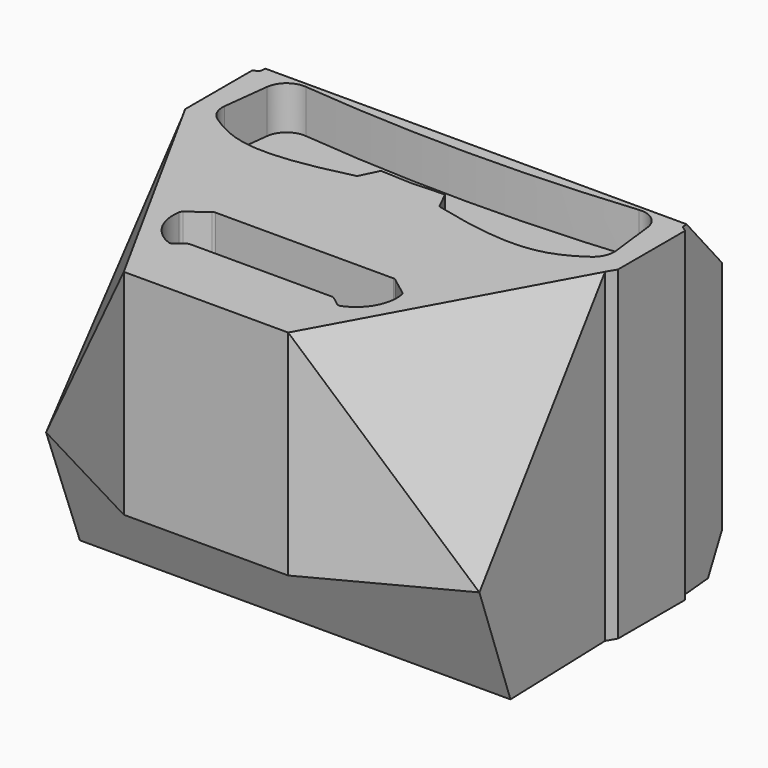
from build123d import *

# Parameters (mm, degrees)
F0_W      = 25.4
F0_H      = 25.4
F1_DEPTH  = 19.05
F2_W      = 33.1137652975
F2_H      = 28.659734875
F3_DEPTH  = 19.051
F5_DEPTH  = 12.7
F7_DEPTH  = 2.54
F9_DEPTH  = 12.7
F12_DEPTH = 25.4
F15_DEPTH = 25.4
F17_DEPTH = 5.08
F18_R     = 1.27
F20_R     = 1.5875
F21_DEPTH = 12.7
F22_R     = 0.254


with BuildPart() as f1:
    # F0 (on Top) → F1 (new body)
    with BuildSketch(Plane.XY):
        Rectangle(F0_W, F0_H)
    extrude(amount=F1_DEPTH)

    # F2 (on face) → F3 (cut, through all)
    with BuildSketch(Plane.XY.offset(19.05)):
        with Locations((-1.1700320756, 0)):
            Rectangle(F2_W, F2_H)
        with BuildLine():
            ThreePointArc((-12.065, 10.0208269432), (0, 11.8638118431), (12.065, 10.0208269432))
            Line((12.065, 10.0208269432), (12.3786535114, 6.750300061))
            Line((12.3786535114, 6.750300061), (12.7, 6.5362956375))
            Line((12.7, 6.5362956375), (12.7, 1.6182865947))
            Line((12.7, 1.6182865947), (12.3786535114, 1.0663146386))
            Line((12.3786535114, 1.0663146386), (12.7, -8.5426112637))
            Line((12.7, -8.5426112637), (4.8173773102, -12.7))
            Line((4.8173773102, -12.7), (0, -12.7))
            Line((0, -12.7), (-4.8173773102, -12.7))
            Line((-4.8173773102, -12.7), (-12.7, -8.5426112637))
            Line((-12.7, -8.5426112637), (-12.3786535114, 1.0663146386))
            Line((-12.3786535114, 1.0663146386), (-12.7, 1.6182865947))
            Line((-12.7, 1.6182865947), (-12.7, 6.5362956375))
            Line((-12.7, 6.5362956375), (-12.3786535114, 6.750300061))
            Line((-12.3786535114, 6.750300061), (-12.065, 10.0208269432))
        make_face(mode=Mode.SUBTRACT)
    extrude(amount=-F3_DEPTH, mode=Mode.SUBTRACT)

    # F4 (on Right) → F5 (cut, symmetric)
    with BuildSketch(Plane.YZ):
        Polygon((13.4258409962, 23.2345554978), (6.619815249, 19.5569172502), (12.7253746614, 12.7713512629), align=None)
    extrude(amount=F5_DEPTH, both=True, mode=Mode.SUBTRACT)

    # F6 (on face) → F7 (cut)
    with BuildSketch(Plane.XY.offset(19.05)):
        with BuildLine():
            ThreePointArc((11.0015488178, 6.9544261182), (0, 6.3570296668), (-11.0015488178, 6.9544261182))
            Line((-11.0015488178, 6.9544261182), (-11.1053383224, 6.0839187998))
            Line((-11.1053383224, 6.0839187998), (-11.5596242249, 2.2737146355))
            add(Edge.make_bspline(
                [(-2.4099256195, 1.3795604811), (-7.9047118703, 0.0093029614), (-9.4140619773, 0.61575824), (-11.5596242249, 2.2737146355)],
                knots=[0, 0, 0, 0, 0.380461969, 0.380461969, 0.380461969, 0.380461969], degree=3))
            Line((-2.4099256195, 1.3795604811), (-1.8782533274, 2.4663225251))
            Line((-1.8782533274, 2.4663225251), (0, 2.3830392409))
            Line((0, 2.3830392409), (1.8782533274, 2.4663225251))
            Line((1.8782533274, 2.4663225251), (2.4099256195, 1.3795604811))
            add(Edge.make_bspline(
                [(2.4099256195, 1.3795604811), (7.9047118703, 0.0093029614), (9.4140619773, 0.61575824), (11.5596242249, 2.2737146355)],
                knots=[0, 0, 0, 0, 0.380461969, 0.380461969, 0.380461969, 0.380461969], degree=3))
            Line((11.5596242249, 2.2737146355), (11.1053383224, 6.0839187998))
            Line((11.1053383224, 6.0839187998), (11.0015488178, 6.9544261182))
        make_face()
    extrude(amount=-F7_DEPTH, mode=Mode.SUBTRACT)

    # F8 (on Right) → F9 (cut, symmetric)
    with BuildSketch(Plane.YZ):
        Polygon((16.2616688758, -2.9984780122), (12.367782183, 5.9512541629), (7.8229103237, -1.7573904479), align=None)
        Polygon((-14.0263205394, -2.3636263795), (-5.847228691, -0.8765184903), (-8.5426112637, 6.5125478432), (-13.6080719531, 6.5125478432), align=None)
    extrude(amount=F9_DEPTH, both=True, mode=Mode.SUBTRACT)

    # F11 (on 3pt) → F12 (cut)
    with BuildSketch(Plane(origin=(13.5235138631, -7.4279156196, 6.0395065555), x_dir=(-0.409334057, -0.8938834922, -0.1828057224), z_dir=(-0.8161889166, 0.4482993446, -0.3645042525))):
        Polygon((9.3890596181, -6.6504105926), (10.8706550673, 19.4640029222), (-6.7497892305, 22.2047120333), (-12.2956875712, 3.634221619), (-6.1068134382, -4.8245443031), align=None)
    extrude(amount=-F12_DEPTH, mode=Mode.SUBTRACT)

    # F14 (on 3pt) → F15 (cut)
    with BuildSketch(Plane(origin=(-13.5235138631, -7.4279156196, 6.0395065555), x_dir=(0.409334057, -0.8938834922, -0.1828057224), z_dir=(-0.8161889166, -0.4482993446, 0.3645042525))):
        Polygon((12.0957437903, 22.2065132111), (-11.2094106153, 21.0766065866), (-8.9160036296, -5.990778096), (12.0957437903, -5.990778096), align=None)
    extrude(amount=F15_DEPTH, mode=Mode.SUBTRACT)

    # F16 (on face) → F17 (cut)
    with BuildSketch(Plane.XY.offset(19.05)):
        with BuildLine():
            Line((5.2999914624, -5.4918094538), (0, -5.4918094538))
            Line((0, -5.4918094538), (-5.2999914624, -5.4918094538))
            Line((-5.2999914624, -5.4918094538), (-6.5067803222, -6.403681509))
            ThreePointArc((-6.5067803222, -6.403681509), (-6.2496472485, -8.0992009526), (-4.9241394059, -9.1872876037))
            Line((-4.9241394059, -9.1872876037), (-4.2353287011, -8.6668094538))
            Line((-4.2353287011, -8.6668094538), (0, -8.6668094538))
            Line((0, -8.6668094538), (4.2353287011, -8.6668094538))
            Line((4.2353287011, -8.6668094538), (4.9241394059, -9.1872876037))
            ThreePointArc((4.9241394059, -9.1872876037), (6.2496472485, -8.0992009526), (6.5067803222, -6.403681509))
            Line((6.5067803222, -6.403681509), (5.2999914624, -5.4918094538))
        make_face()
    extrude(amount=-F17_DEPTH, mode=Mode.SUBTRACT)

    # F18
    f18_edges = [f1.edges().sort_by_distance(p)[0] for p in [
        (-11.001549, 6.954426, 17.78),
        (11.001549, 6.954426, 17.78),
        (11.559624, 2.273715, 17.78),
        (-11.559624, 2.273715, 17.78),
    ]]
    fillet(f18_edges, radius=F18_R)

    # F20 (on face) → F21 (cut, symmetric)
    with BuildSketch(Plane(origin=(-4.0520275589, -3.3428374331, 0), x_dir=(-0.6363732922, 0.7713812501, 0), z_dir=(0.7713812501, 0.6363732922, 0))):
        with Locations((12.3976198956, 8.7611014023)):
            Circle(F20_R)
    extrude(amount=F21_DEPTH, both=True, mode=Mode.SUBTRACT)

    # F22
    f22_edges = [f1.edges().sort_by_distance(p)[0] for p in [
        (-4.235329, -8.666809, 16.51),
        (-4.924139, -9.187288, 16.51),
        (-6.50678, -6.403682, 16.51),
        (-5.299991, -5.491809, 16.51),
        (4.235329, -8.666809, 16.51),
        (4.924139, -9.187288, 16.51),
        (6.50678, -6.403682, 16.51),
        (5.299991, -5.491809, 16.51),
    ]]
    fillet(f22_edges, radius=F22_R)


solid = f1.part
